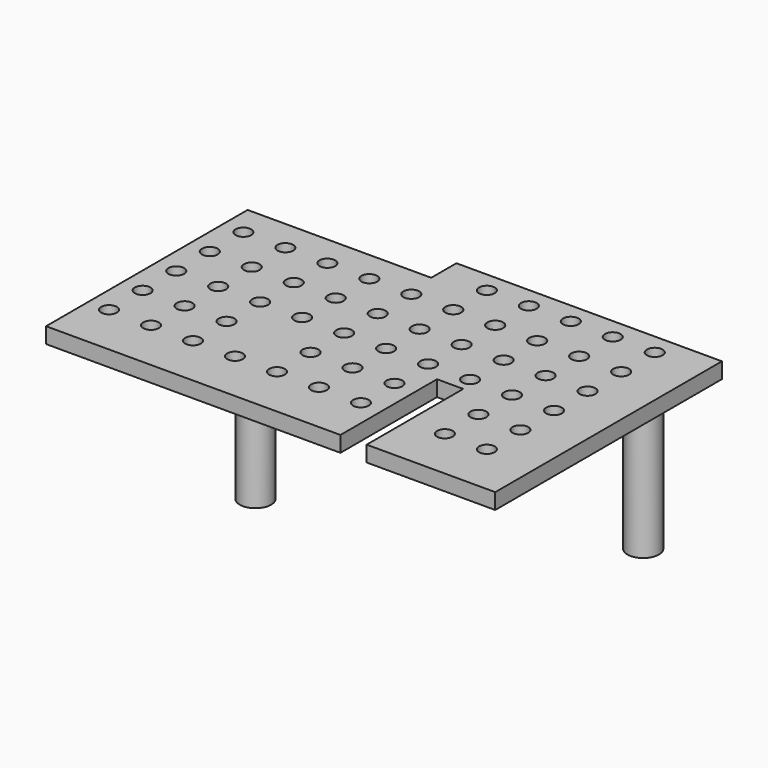
from build123d import *

# Parameters (mm, degrees)
PAD_DEPTH     = 3
SKETCH002_R   = 1.5
POCKET_DEPTH  = 3.001
SKETCH001_R   = 3
SKETCH001_R_2 = 1.5
PAD001_DEPTH  = 28
FILLET_R      = 0.5


with BuildPart() as part:
    # Sketch → Pad (new body)
    with BuildSketch(Plane.XY):
        Polygon((-7.8, 27), (42.8, 27), (42.8, -27), (18.3, -27), (18.3, -4), (13.3, -4), (13.3, -27), (-42.8, -27), (-42.8, 21), (-7.8, 21), align=None)
    extrude(amount=PAD_DEPTH)

    # Sketch002 → Pocket (cut, through all)
    with BuildSketch(Plane.XY.offset(3)):
        with Locations((1.2, 23)):
            Circle(SKETCH002_R)
        with Locations((9.2, 23)):
            Circle(SKETCH002_R)
        with Locations((17.2, 23)):
            Circle(SKETCH002_R)
        with Locations((25.2, 23)):
            Circle(SKETCH002_R)
        with Locations((33.2, 23)):
            Circle(SKETCH002_R)
        with Locations((-38.8, 15)):
            Circle(SKETCH002_R)
        with Locations((-30.8, 15)):
            Circle(SKETCH002_R)
        with Locations((-22.8, 15)):
            Circle(SKETCH002_R)
        with Locations((-14.8, 15)):
            Circle(SKETCH002_R)
        with Locations((-6.8, 15)):
            Circle(SKETCH002_R)
        with Locations((1.2, 15)):
            Circle(SKETCH002_R)
        with Locations((9.2, 15)):
            Circle(SKETCH002_R)
        with Locations((17.2, 15)):
            Circle(SKETCH002_R)
        with Locations((25.2, 15)):
            Circle(SKETCH002_R)
        with Locations((33.2, 15)):
            Circle(SKETCH002_R)
        with Locations((-38.8, 7)):
            Circle(SKETCH002_R)
        with Locations((-30.8, 7)):
            Circle(SKETCH002_R)
        with Locations((-22.8, 7)):
            Circle(SKETCH002_R)
        with Locations((-14.8, 7)):
            Circle(SKETCH002_R)
        with Locations((-6.8, 7)):
            Circle(SKETCH002_R)
        with Locations((1.2, 7)):
            Circle(SKETCH002_R)
        with Locations((9.2, 7)):
            Circle(SKETCH002_R)
        with Locations((17.2, 7)):
            Circle(SKETCH002_R)
        with Locations((25.2, 7)):
            Circle(SKETCH002_R)
        with Locations((33.2, 7)):
            Circle(SKETCH002_R)
        with Locations((-38.8, -1)):
            Circle(SKETCH002_R)
        with Locations((-30.8, -1)):
            Circle(SKETCH002_R)
        with Locations((-22.8, -1)):
            Circle(SKETCH002_R)
        with Locations((-14.8, -1)):
            Circle(SKETCH002_R)
        with Locations((-6.8, -1)):
            Circle(SKETCH002_R)
        with Locations((1.2, -1)):
            Circle(SKETCH002_R)
        with Locations((9.2, -1)):
            Circle(SKETCH002_R)
        with Locations((17.2, -1)):
            Circle(SKETCH002_R)
        with Locations((25.2, -1)):
            Circle(SKETCH002_R)
        with Locations((33.2, -1)):
            Circle(SKETCH002_R)
        with Locations((-38.8, -9)):
            Circle(SKETCH002_R)
        with Locations((-30.8, -9)):
            Circle(SKETCH002_R)
        with Locations((-22.8, -9)):
            Circle(SKETCH002_R)
        with Locations((-6.8, -9)):
            Circle(SKETCH002_R)
        with Locations((1.2, -9)):
            Circle(SKETCH002_R)
        with Locations((9.2, -9)):
            Circle(SKETCH002_R)
        with Locations((25.2, -9)):
            Circle(SKETCH002_R)
        with Locations((33.2, -9)):
            Circle(SKETCH002_R)
        with Locations((-38.8, -17)):
            Circle(SKETCH002_R)
        with Locations((-30.8, -17)):
            Circle(SKETCH002_R)
        with Locations((-22.8, -17)):
            Circle(SKETCH002_R)
        with Locations((-14.8, -17)):
            Circle(SKETCH002_R)
        with Locations((-6.8, -17)):
            Circle(SKETCH002_R)
        with Locations((1.2, -17)):
            Circle(SKETCH002_R)
        with Locations((9.2, -17)):
            Circle(SKETCH002_R)
        with Locations((25.2, -17)):
            Circle(SKETCH002_R)
        with Locations((33.2, -17)):
            Circle(SKETCH002_R)
    extrude(amount=-POCKET_DEPTH, mode=Mode.SUBTRACT)

    # Sketch001 → Pad001 (new body)
    with BuildSketch(Plane.XY.offset(3)):
        with Locations((-17.3, -9)):
            Circle(SKETCH001_R)
        with Locations((-17.3, -9)):
            Circle(SKETCH001_R_2, mode=Mode.SUBTRACT)
        with Locations((37.8, 14.5)):
            Circle(SKETCH001_R)
        with Locations((37.8, 14.5)):
            Circle(SKETCH001_R_2, mode=Mode.SUBTRACT)
    extrude(amount=-PAD001_DEPTH)

    # Fillet
    fillet_edges = [part.edges().sort_by_distance(p)[0] for p in [
        (34.8, 14.5, 0),
        (-20.3, -9, 0),
    ]]
    fillet(fillet_edges, radius=FILLET_R)


solid = part.part
